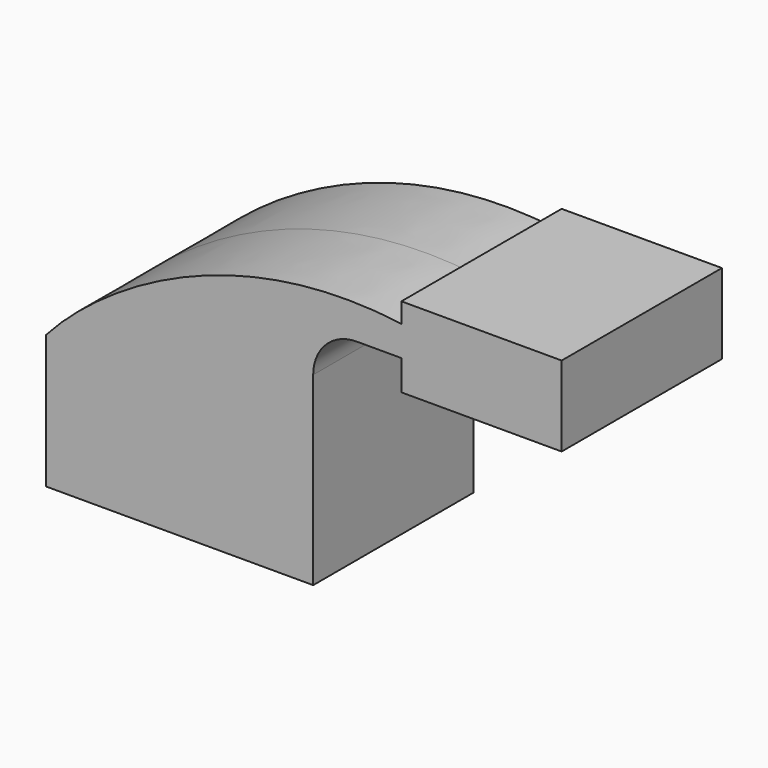
from build123d import *

# Parameters (mm, degrees)
F0_W     = 18.5228410084
F0_H     = 11.43
F0_H_2   = 7.5720755244
F0_H_3   = 11.4779244756
F1_DEPTH = 38.1


with BuildPart() as f1:
    # F0 (on Front) → F1 (new body, symmetric)
    with BuildSketch(Plane.XZ):
        Polygon((50.8, -25.4), (50.8, 25.4), (39.37, 25.4), (-50.8, 25.4), (-50.8, -25.4), align=None)
        with BuildLine():
            Line((39.37, 25.4), (50.8, 25.4))
            Line((50.8, 25.4), (50.8, 45.0490498941))
            ThreePointArc((50.8, 45.0490498941), (55.6356670426, 56.7233828515), (67.31, 61.5590498941))
            Line((67.31, 61.5590498941), (84.3471589916, 61.5590498941))
            Line((84.3471589916, 61.5590498941), (84.3471589916, 72.9890498941))
            Line((84.3471589916, 72.9890498941), (67.31, 72.9890498941))
            ThreePointArc((67.31, 72.9890498941), (47.5534365336, 64.8056133605), (39.37, 45.0490498941))
            Line((39.37, 45.0490498941), (39.37, 25.4))
        make_face()
        with BuildLine():
            Line((-50.8, 25.4), (39.37, 25.4))
            Line((39.37, 25.4), (39.37, 45.0490498941))
            ThreePointArc((39.37, 45.0490498941), (47.5534365336, 64.8056133605), (67.31, 72.9890498941))
            Line((67.31, 72.9890498941), (84.3471589916, 72.9890498941))
            add(Edge.make_bspline(
                [(-50.8, 25.4), (-28.9896316826, 49.8143061996), (21.0760347545, 81.6389918327), (84.3471589916, 72.9890498941)],
                knots=[0, 0, 0, 0, 143.2810952405, 143.2810952405, 143.2810952405, 143.2810952405], degree=3))
        make_face()
        with Locations((93.6085794958, 67.2740498941)):
            Rectangle(F0_W, F0_H)
        with Locations((93.6085794958, 76.7750876563)):
            Rectangle(F0_W, F0_H_2)
        with Locations((93.6085794958, 55.8200876563)):
            Rectangle(F0_W, F0_H_3)
        Polygon((102.87, 80.5611254185), (102.87, 72.9890498941), (102.87, 61.5590498941), (102.87, 50.0811254185), (145.3071589916, 50.0811254185), (145.3071589916, 80.5611254185), align=None)
    extrude(amount=F1_DEPTH, both=True)


solid = f1.part
